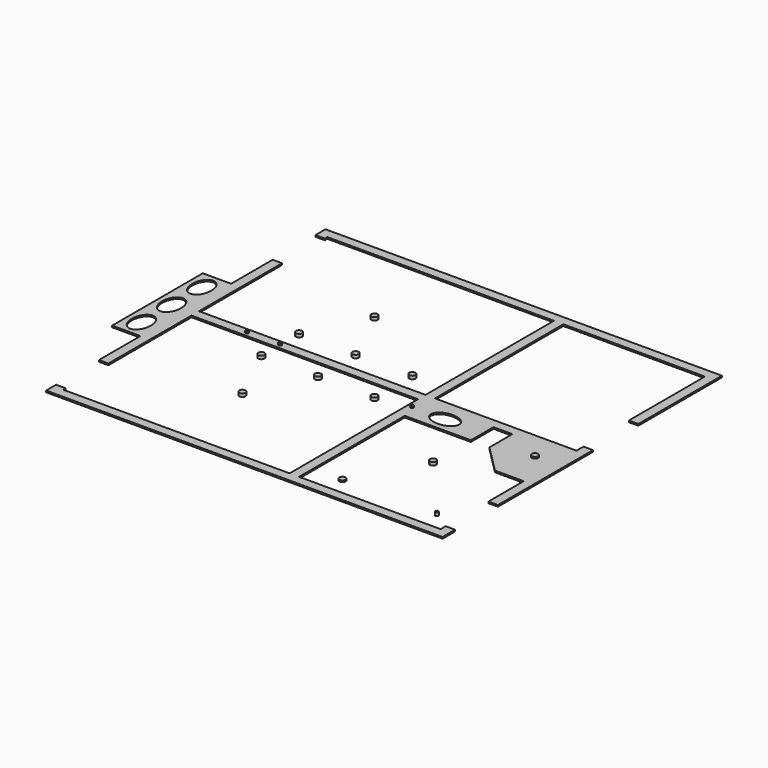
from build123d import *

# Parameters (mm, degrees)
F1_W     = 457.2
F1_H     = 1828.8
F1_W_2   = 1066.8
F1_H_2   = 457.2
F3_DEPTH = 25.4
F1_R     = 50.8
F4_DEPTH = 50.8
F2_R     = 50.8


with BuildPart() as f3:
    # F1 (on Top) → F3 (new body)
    with BuildSketch(Plane.XY):
        Polygon((1066.8, -2743.2001441956), (152.4, -2743.2001441956), (152.4, -1066.8001441956), (0, -1066.8001441956), (0, -1905.0001441956), (0, -3733.8001441956), (0, -4572.0001441956), (152.4, -4572.0001441956), (152.4, -2895.6001441956), (1066.8, -2895.6001441956), (1981.2, -2895.6001441956), (2895.6, -2895.6001441956), (3810, -2895.6001441956), (3810, -4419.6001441956), (3810, -5486.4001441956), (152.4, -5486.4001441956), (152.4, -5435.6001441956), (76.2, -5435.6001441956), (0, -5435.6001441956), (0, -5638.8001441956), (6400.8, -5638.8001441956), (6400.8, -5384.8001441956), (6324.6, -5384.8001441956), (6248.4, -5384.8001441956), (6248.4, -5486.4001441956), (3962.4, -5486.4001441956), (3962.4, -3352.8001441956), (3962.4, -2895.6001441956), (5029.2, -2895.6001441956), (5334, -2895.6001441956), (6248.4, -2895.6001441956), (6248.4, -3810.0001441956), (6248.4, -4521.2001441956), (6400.8, -4521.2001441956), (6400.8, -2601.5044700622), (6324.6, -2601.5044700622), (6248.4, -2601.5044700622), (6248.4, -2743.2001441956), (3962.4, -2743.2001441956), (3962.4, -152.4001441955), (6248.4, -152.4001441955), (6248.4, -1687.1044700622), (6400.8, -1687.1044700622), (6400.8, -0.0001441956), (3962.4, -0.0001441956), (0, -0.0001441956), (0, -203.2001441956), (76.2, -203.2001441956), (152.4, -203.2001441956), (152.4, -152.4001441956), (3810, -152.4001441955), (3810, -1219.2001441956), (3810, -2743.2001441956), (2895.6, -2743.2001441956), (1981.2, -2743.2001441956), align=None)
        with Locations((-228.6, -2819.4001441956)):
            Rectangle(F1_W, F1_H)
        with BuildLine():
            add(Edge.make_bspline(
                [(-228.6, -3200.4001441956), (-492.5645430735, -3200.4001441956), (-360.5822715367, -3543.3001441956), (-228.6, -3886.2001441956), (-96.6177284633, -3543.3001441956), (35.3645430735, -3200.4001441956), (-228.6, -3200.4001441956)],
                knots=[0, 0, 0, 2.0943951024, 2.0943951024, 4.1887902048, 4.1887902048, 6.2831853072, 6.2831853072, 6.2831853072], degree=2, weights=[1, 0.5, 1, 0.5, 1, 0.5, 1]))
        make_face(mode=Mode.SUBTRACT)
        with BuildLine():
            add(Edge.make_bspline(
                [(-228.6, -2590.8001441956), (-492.5645430735, -2590.8001441956), (-360.5822715367, -2933.7001441956), (-228.6, -3276.6001441956), (-96.6177284633, -2933.7001441956), (35.3645430735, -2590.8001441956), (-228.6, -2590.8001441956)],
                knots=[0, 0, 0, 2.0943951024, 2.0943951024, 4.1887902048, 4.1887902048, 6.2831853072, 6.2831853072, 6.2831853072], degree=2, weights=[1, 0.5, 1, 0.5, 1, 0.5, 1]))
        make_face(mode=Mode.SUBTRACT)
        with BuildLine():
            add(Edge.make_bspline(
                [(-228.6, -1981.2001441956), (-492.5645430735, -1981.2001441956), (-360.5822715367, -2324.1001441956), (-228.6, -2667.0001441956), (-96.6177284633, -2324.1001441956), (35.3645430735, -1981.2001441956), (-228.6, -1981.2001441956)],
                knots=[0, 0, 0, 2.0943951024, 2.0943951024, 4.1887902048, 4.1887902048, 6.2831853072, 6.2831853072, 6.2831853072], degree=2, weights=[1, 0.5, 1, 0.5, 1, 0.5, 1]))
        make_face(mode=Mode.SUBTRACT)
        Polygon((5784.85, -3810.0001441956), (6248.4, -3810.0001441956), (6248.4, -2895.6001441956), (5334, -2895.6001441956), (5334, -3359.1501441956), align=None)
        with Locations((4495.8, -3124.2001441956)):
            Rectangle(F1_W_2, F1_H_2)
        with BuildLine():
            add(Edge.make_bspline(
                [(4191, -3109.5941986084), (4191, -3373.5587416819), (4533.9, -3241.5764701451), (4876.8, -3109.5941986084), (4533.9, -2977.6119270716), (4191, -2845.6296555349), (4191, -3109.5941986084)],
                knots=[0, 0, 0, 2.0943951024, 2.0943951024, 4.1887902048, 4.1887902048, 6.2831853072, 6.2831853072, 6.2831853072], degree=2, weights=[1, 0.5, 1, 0.5, 1, 0.5, 1]))
        make_face(mode=Mode.SUBTRACT)
    extrude(amount=F3_DEPTH)

    # F2 (on Top) → F4, piece 8 (join)
    with BuildSketch(Plane.XY):
        with BuildLine():
            ThreePointArc((963.5691699066, -2819.4001441956), (988.9691699066, -2844.8001441956), (1014.3691699066, -2819.4001441956))
            Line((1014.3691699066, -2819.4001441956), (963.5691699066, -2819.4001441956))
        make_face()
        with BuildLine():
            Line((963.5691699066, -2819.4001441956), (1014.3691699066, -2819.4001441956))
            ThreePointArc((1014.3691699066, -2819.4001441956), (988.9691699066, -2794.0001441956), (963.5691699066, -2819.4001441956))
        make_face()
        with BuildLine():
            ThreePointArc((1549.4, -2819.4), (1541.9605122421, -2801.4394877579), (1524, -2794))
            ThreePointArc((1524, -2794), (1506.0394367771, -2801.4395387388), (1498.6000000004, -2819.4001441956))
            Line((1498.6000000004, -2819.4001441956), (1549.3999999996, -2819.4001441956))
            ThreePointArc((1549.3999999996, -2819.4001441956), (1549.3999999999, -2819.4000720978), (1549.4, -2819.4))
        make_face()
        with BuildLine():
            Line((1549.3999999996, -2819.4001441956), (1498.6000000004, -2819.4001441956))
            ThreePointArc((1498.6000000004, -2819.4001441956), (1524, -2844.8), (1549.3999999996, -2819.4001441956))
        make_face()
        with BuildLine():
            ThreePointArc((5994.4, -3200.4001441956), (5979.5210244843, -3164.4791197113), (5943.6, -3149.6001441956))
            Line((5943.6, -3149.6001441956), (5943.6, -3251.2001441956))
            ThreePointArc((5943.6, -3251.2001441956), (5979.5210244843, -3236.3211686798), (5994.4, -3200.4001441956))
        make_face()
        with BuildLine():
            Line((5943.6, -3251.2001441956), (5943.6, -3149.6001441956))
            ThreePointArc((5943.6, -3149.6001441956), (5892.8, -3200.4001441956), (5943.6, -3251.2001441956))
        make_face()
        with BuildLine():
            ThreePointArc((3911.6, -3109.5941986084), (3904.1605122421, -3091.6336863662), (3886.2, -3084.1941986084))
            Line((3886.2, -3084.1941986084), (3886.2, -3109.5941986084))
            Line((3886.2, -3109.5941986084), (3911.6, -3109.5941986084))
        make_face()
        with BuildLine():
            Line((3886.2, -3109.5941986084), (3886.2, -3084.1941986084))
            ThreePointArc((3886.2, -3084.1941986084), (3860.8, -3109.5941986084), (3886.2, -3134.9941986084))
            Line((3886.2, -3134.9941986084), (3886.2, -3109.5941986084))
        make_face()
        with BuildLine():
            ThreePointArc((3886.2, -3134.9941986084), (3904.1605122421, -3127.5547108505), (3911.6, -3109.5941986084))
            Line((3911.6, -3109.5941986084), (3886.2, -3109.5941986084))
            Line((3886.2, -3109.5941986084), (3886.2, -3134.9941986084))
        make_face()
    extrude(amount=F4_DEPTH)


with BuildPart() as f3b:
    # F1 (on Top) → F3, piece 2 (new body)
    with BuildSketch(Plane.XY):
        with Locations((4419.6, -5181.6001441956)):
            Circle(F1_R)
    extrude(amount=F3_DEPTH)


with BuildPart() as f4:
    # F2 (on Top) → F4 (new body)
    with BuildSketch(Plane.XY):
        with BuildLine():
            ThreePointArc((1524, -2489.2), (1559.9210244843, -2474.3210244843), (1574.8, -2438.4))
            ThreePointArc((1574.8, -2438.4), (1488.0789755157, -2402.4789755157), (1524, -2489.2))
        make_face()
    extrude(amount=F4_DEPTH)


with BuildPart() as f4b:
    # F2 (on Top) → F4, piece 2 (new body)
    with BuildSketch(Plane.XY):
        with Locations((1524, -3200.4)):
            Circle(F2_R)
    extrude(amount=F4_DEPTH)


with BuildPart() as f4c:
    # F2 (on Top) → F4, piece 3 (new body)
    with BuildSketch(Plane.XY):
        with BuildLine():
            ThreePointArc((2438.4000159135, -3149.6), (2402.4789698895, -3236.321018858), (2489.2, -3200.4))
            ThreePointArc((2489.2, -3200.4), (2474.3210301105, -3164.478981142), (2438.4000159135, -3149.6))
        make_face()
    extrude(amount=F4_DEPTH)


with BuildPart() as f4d:
    # F2 (on Top) → F4, piece 4 (new body)
    with BuildSketch(Plane.XY):
        with BuildLine():
            ThreePointArc((2489.2, -2438.3999951099), (2402.4789755157, -2402.4789706256), (2438.4, -2489.1999951099))
            ThreePointArc((2438.4, -2489.1999951099), (2474.3210244843, -2474.3210195942), (2489.2, -2438.3999951099))
        make_face()
    extrude(amount=F4_DEPTH)


with BuildPart() as f4e:
    # F2 (on Top) → F4, piece 5 (new body)
    with BuildSketch(Plane.XY):
        with BuildLine():
            ThreePointArc((3403.6, -2438.4), (3316.8789755157, -2402.4789755157), (3352.8, -2489.2))
            ThreePointArc((3352.8, -2489.2), (3388.7210244843, -2474.3210244843), (3403.6, -2438.4))
        make_face()
    extrude(amount=F4_DEPTH)


with BuildPart() as f4f:
    # F2 (on Top) → F4, piece 6 (new body)
    with BuildSketch(Plane.XY):
        with BuildLine():
            ThreePointArc((5969, -5181.6001441956), (5961.5605122421, -5163.6396319534), (5943.6, -5156.2001441956))
            ThreePointArc((5943.6, -5156.2001441956), (5925.6394877579, -5199.5606564377), (5969, -5181.6001441956))
        make_face()
    extrude(amount=F4_DEPTH)


with BuildPart() as f4g:
    # F2 (on Top) → F4, piece 7 (new body)
    with BuildSketch(Plane.XY):
        with BuildLine():
            ThreePointArc((5080, -4114.8001441956), (5065.1210244843, -4078.8791197113), (5029.2, -4064.0001441956))
            Line((5029.2, -4064.0001441956), (5029.2, -4165.6001441956))
            ThreePointArc((5029.2, -4165.6001441956), (5065.1210244843, -4150.7211686798), (5080, -4114.8001441956))
        make_face()
        with BuildLine():
            Line((5029.2, -4165.6001441956), (5029.2, -4064.0001441956))
            ThreePointArc((5029.2, -4064.0001441956), (4978.4, -4114.8001441956), (5029.2, -4165.6001441956))
        make_face()
    extrude(amount=F4_DEPTH)


with BuildPart() as f4h:
    # F2 (on Top) → F4, piece 9 (new body)
    with BuildSketch(Plane.XY):
        with BuildLine():
            ThreePointArc((3403.6, -3200.4), (3388.7210244843, -3164.4789755157), (3352.8, -3149.6))
            ThreePointArc((3352.8, -3149.6), (3316.8789755157, -3236.3210244843), (3403.6, -3200.4))
        make_face()
    extrude(amount=F4_DEPTH)


with BuildPart() as f4i:
    # F2 (on Top) → F4, piece 10 (new body)
    with BuildSketch(Plane.XY):
        with BuildLine():
            ThreePointArc((1981.2, -4102.1001441956), (1945.2789755157, -4188.8211686798), (2032, -4152.9001441956))
            ThreePointArc((2032, -4152.9001441956), (2017.1210244843, -4116.9791197113), (1981.2, -4102.1001441956))
        make_face()
    extrude(amount=F4_DEPTH)


with BuildPart() as f4j:
    # F2 (on Top) → F4, piece 11 (new body)
    with BuildSketch(Plane.XY):
        with BuildLine():
            ThreePointArc((1981.2, -1536.7001441956), (2017.1210244843, -1521.8211686798), (2032, -1485.9001441956))
            ThreePointArc((2032, -1485.9001441956), (1945.2789755157, -1449.9791197113), (1981.2, -1536.7001441956))
        make_face()
    extrude(amount=F4_DEPTH)


solid = Compound([f3.part, f3b.part, f4.part, f4b.part, f4c.part, f4d.part, f4e.part, f4f.part, f4g.part, f4h.part, f4i.part, f4j.part])
